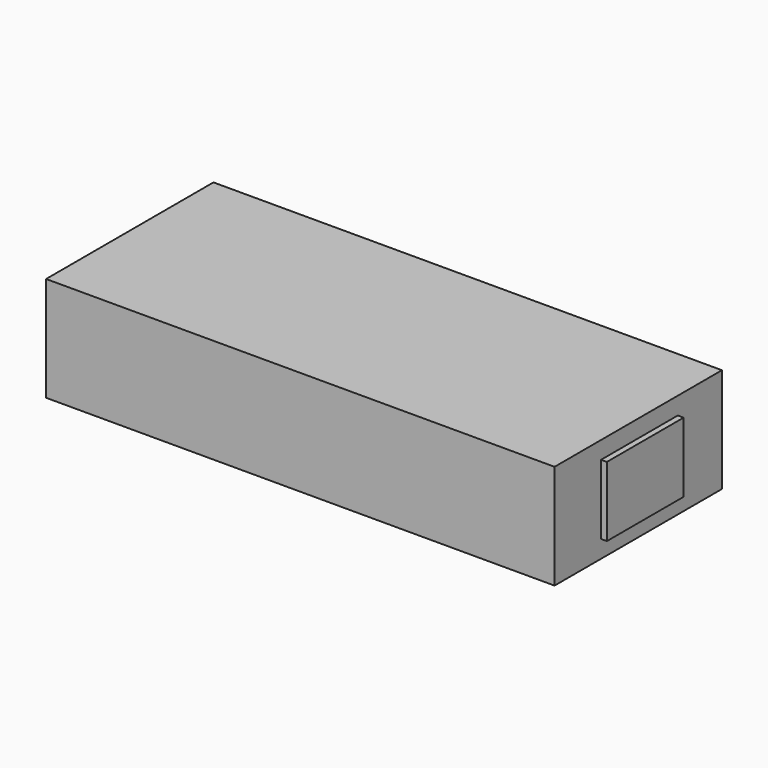
from build123d import *

# Parameters (mm, degrees)
CYLINDER_R     = 2
CYLINDER_DEPTH = 11
BOX_W          = 175
BOX_H          = 72
BOX_DEPTH      = 36
BOX002_W       = 7
BOX002_H       = 4
BOX002_DEPTH   = 10
BOX003_W       = 10
BOX003_H       = 33
BOX003_DEPTH   = 24


with BuildPart() as f_24v_cable:
    # Cylinder → Cylinder (new body)
    with BuildSketch(Plane(origin=(-7, 36, 18), x_dir=(0, 0, -1), z_dir=(1, 0, 0))):
        Circle(CYLINDER_R)
    extrude(amount=CYLINDER_DEPTH)


with BuildPart() as obj1:
    # Box → Box (new body)
    with BuildSketch(Plane.XY):
        with Locations((87.5, 36)):
            Rectangle(BOX_W, BOX_H)
    extrude(amount=BOX_DEPTH)


with BuildPart() as led:
    # Box002 → Box002 (new body)
    with BuildSketch(Plane(origin=(5, 18, 26), x_dir=(1, 0, 0), z_dir=(0, 0, 1))):
        with Locations((3.5, 2)):
            Rectangle(BOX002_W, BOX002_H)
    extrude(amount=BOX002_DEPTH)


with BuildPart() as fusion:
    # Box003 → Box003 (new body)
    with BuildSketch(Plane(origin=(167, 20, 6), x_dir=(1, 0, 0), z_dir=(0, 0, 1))):
        with Locations((5, 16.5)):
            Rectangle(BOX003_W, BOX003_H)
    extrude(amount=BOX003_DEPTH)

    # Fusion: union 24V Cable, obj1, LED
    add(f_24v_cable.part)
    add(obj1.part)
    add(led.part)


solid = fusion.part
